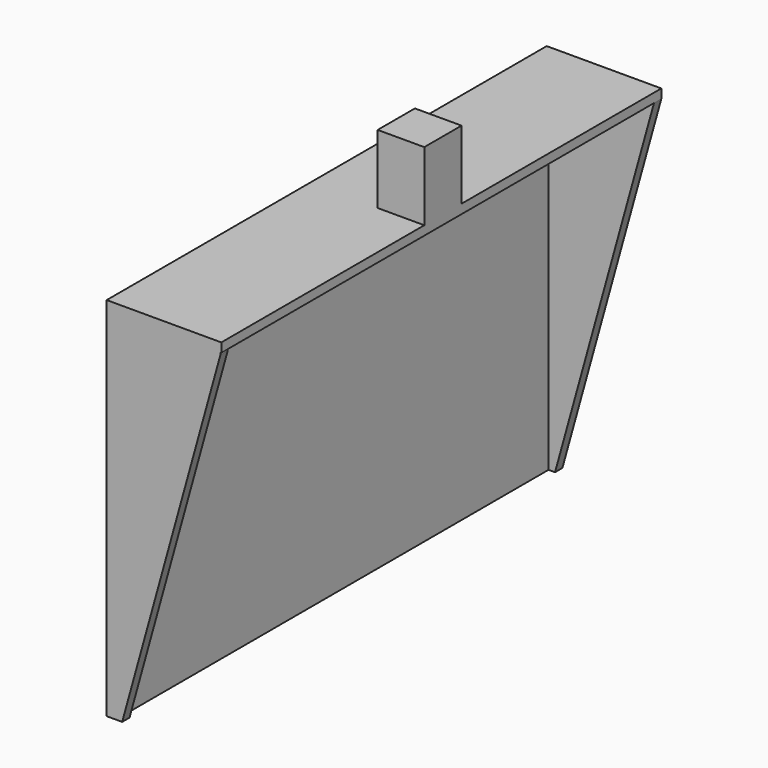
from build123d import *

# Parameters (mm, degrees)
F0_W      = 304.7006875277
F0_H      = 202.9495164752
F1_DEPTH  = 63.5
F2_T      = -5.08
F3_DEPTH  = 25.4
F4_DEPTH  = 25.4
F7_DEPTH  = 123.952
F9_DEPTH  = 25.4
F10_W     = 5.08
F10_H     = 197.8695164752
F11_DEPTH = 0.508
F12_W     = 25.8265564442
F12_H     = 25.7899604912
F13_DEPTH = 38.1


with BuildPart() as f1:
    # F0 (on Right) → F1 (new body)
    with BuildSketch(Plane.YZ):
        with Locations((-9.5159932971, -10.8270607889)):
            Rectangle(F0_W, F0_H)
    extrude(amount=F1_DEPTH)

    # F2
    f2_openings = [f1.faces().sort_by_distance(p)[0] for p in [
        (63.5, -9.515993, -10.827061),
    ]]
    offset(amount=F2_T, openings=f2_openings)

    # F3 (cut): a face of the model
    f3_faces = [f1.faces().sort_by_distance(p)[0] for p in [
        (31.75, -9.5159932971, -112.3018190265),
    ]]
    extrude(f3_faces, amount=-F3_DEPTH, mode=Mode.SUBTRACT)

    # F4 (add): a face of the model
    f4_faces = [f1.faces().sort_by_distance(p)[0] for p in [
        (3.1124710277, -9.5159932971, -86.9018190265),
    ]]
    extrude(f4_faces, amount=F4_DEPTH)

    # F6 (on face) → F7 (cut)
    with BuildSketch(Plane.XZ.offset(-137.7543504667)):
        Polygon((63.5, -112.3018190265), (63.5, 85.5676974487), (8.6876470596, -112.3018190265), align=None)
    extrude(amount=-F7_DEPTH, mode=Mode.SUBTRACT)

    # F8 (on face) → F9 (cut)
    with BuildSketch(Plane(origin=(0, -156.7863370609, 0), x_dir=(-1, 0, 0), z_dir=(0, 1, 0))):
        Polygon((-8.4076998755, -112.942405045), (-63.1341859698, 84.8678573966), (-63.1341859698, -112.942405045), align=None)
    extrude(amount=-F9_DEPTH, mode=Mode.SUBTRACT)

    # F10 (on face) → F11 (cut)
    with BuildSketch(Plane.YZ.offset(63.5)):
        with Locations((-159.3263370609, -13.3670607889)):
            Rectangle(F10_W, F10_H)
    extrude(amount=-F11_DEPTH, mode=Mode.SUBTRACT)

    # F12 (on face) → F13 (join)
    with BuildSketch(Plane.XY.offset(90.6476974487)):
        with Locations((50.5867217779, -8.4131233307)):
            Rectangle(F12_W, F12_H)
    extrude(amount=F13_DEPTH)


solid = f1.part
